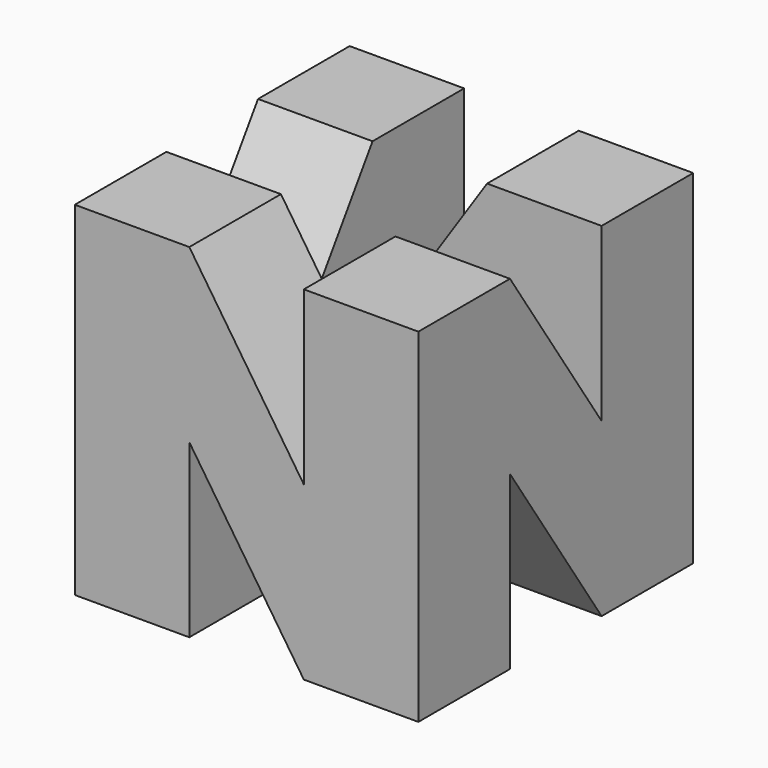
from build123d import *

# Parameters (mm, degrees)
F0_W      = 152.4
F0_H      = 152.4
F1_DEPTH  = 76.2
F2_W      = 25.4
F2_H      = 25.4
F3_DEPTH  = 152.401
F5_DEPTH  = 50.8
F7_DEPTH  = 50.8
F9_DEPTH  = 50.8
F11_DEPTH = 50.8


with BuildPart() as f1:
    # F0 (on Top) → F1 (new body, symmetric)
    with BuildSketch(Plane.XY):
        with Locations((0, 4.4160668929)):
            Rectangle(F0_W, F0_H)
    extrude(amount=F1_DEPTH, both=True)

    # F2 (on face) → F3 (cut, through all)
    with BuildSketch(Plane.XY.offset(76.2)):
        Polygon((0, 29.8160668929), (-25.4, 29.8160668929), (0, 4.4160668929), align=None)
        with Locations((12.7, 17.1160668929)):
            Rectangle(F2_W, F2_H)
        Polygon((25.4, 4.4160668929), (0, 4.4160668929), (25.4, -20.9839331071), align=None)
        Polygon((25.4, -20.9839331071), (0, 4.4160668929), (0, -20.9839331071), align=None)
        with Locations((-12.7, -8.2839331071)):
            Rectangle(F2_W, F2_H)
        Polygon((0, 4.4160668929), (-25.4, 29.8160668929), (-25.4, 4.4160668929), align=None)
    extrude(amount=-F3_DEPTH, mode=Mode.SUBTRACT)

    # F4 (on face) → F5 (cut)
    with BuildSketch(Plane(origin=(0, 80.6160668929, 0), x_dir=(-1, 0, 0), z_dir=(0, 1, 0))):
        Polygon((25.4, -76.2), (-25.4, 0), (-25.4, -76.2), align=None)
        Polygon((25.4, 76.2), (-25.4, 76.2), (25.4, 0), align=None)
    extrude(amount=-F5_DEPTH, mode=Mode.SUBTRACT)

    # F6 (on face) → F7 (cut)
    with BuildSketch(Plane(origin=(-76.2, 0, 0), x_dir=(0, -1, 0), z_dir=(-1, 0, 0))):
        Polygon((20.9839331071, -76.2), (-29.8160668929, 0), (-29.8160668929, -76.2), align=None)
        Polygon((20.9839331071, 76.2), (-29.8160668929, 76.2), (20.9839331071, 0), align=None)
    extrude(amount=-F7_DEPTH, mode=Mode.SUBTRACT)

    # F8 (on face) → F9 (cut)
    with BuildSketch(Plane.XZ.offset(71.7839331071)):
        Polygon((25.4, -76.2), (-25.4, 0), (-25.4, -76.2), align=None)
        Polygon((25.4, 76.2), (-25.4, 76.2), (25.4, 0), align=None)
    extrude(amount=-F9_DEPTH, mode=Mode.SUBTRACT)

    # F10 (on face) → F11 (cut)
    with BuildSketch(Plane.YZ.offset(76.2)):
        Polygon((29.8160668929, -76.2), (-20.9839331071, 0), (-20.9839331071, -76.2), align=None)
        Polygon((29.8160668929, 76.2), (-20.9839331071, 76.2), (29.8160668929, 0), align=None)
    extrude(amount=-F11_DEPTH, mode=Mode.SUBTRACT)


solid = f1.part
